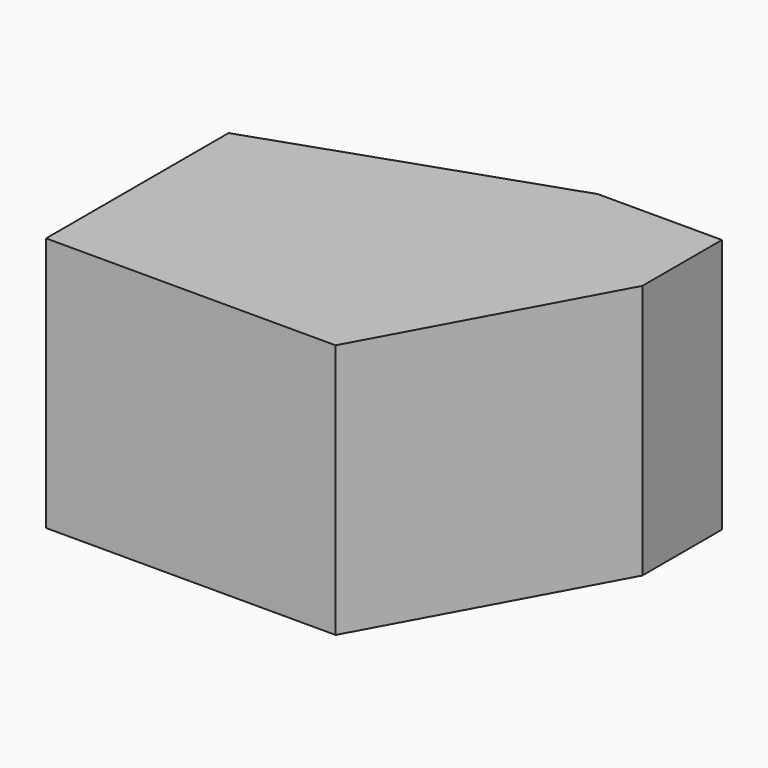
from build123d import *

# Parameters (mm, degrees)
F0_W     = 15.59283
F0_H     = 12.481529
F1_DEPTH = 32.004


with BuildPart() as f1:
    # F0 (on Top) → F1 (new body)
    with BuildSketch(Plane.XY):
        Polygon((-16.001523, -7.900454), (20.335106, -7.900454), (20.335106, 20.730838), (10.882463, 20.730838), (-16.001523, 20.730838), align=None)
        Polygon((20.335106, 20.730838), (20.335106, -7.900454), (35.927936, 20.730838), align=None)
        with Locations((28.131521, 26.971602)):
            Rectangle(F0_W, F0_H)
        Polygon((10.882463, 20.730838), (20.335106, 20.730838), (20.335106, 33.212367), (-16.001523, 20.730838), align=None)
    extrude(amount=F1_DEPTH)


solid = f1.part
